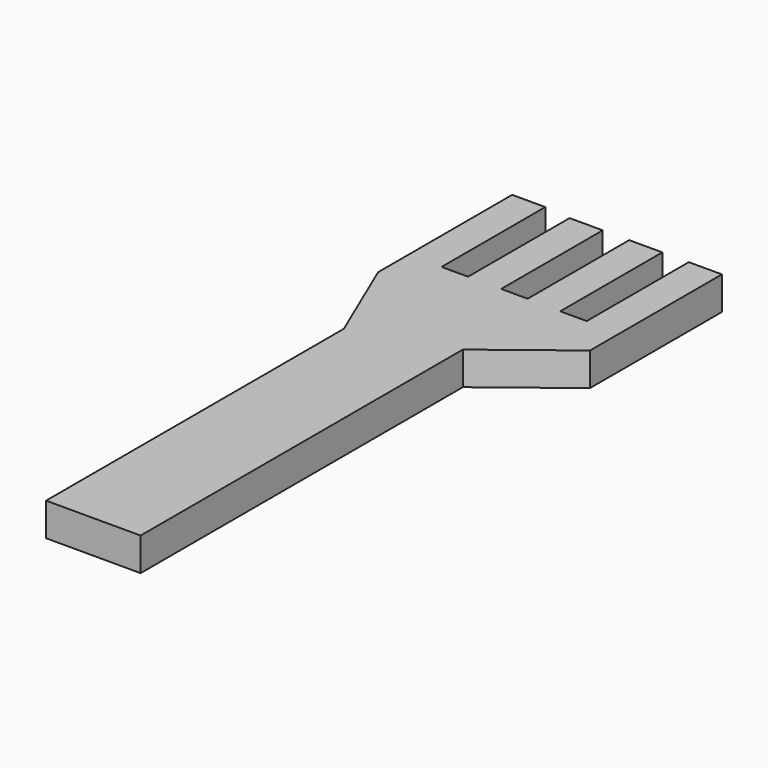
from build123d import *

# Parameters (mm, degrees)
F1_DEPTH = 6.35


with BuildPart() as f1:
    # F0 (on Top) → F1 (new body)
    with BuildSketch(Plane.XY):
        Polygon((-3.97574, 28.643733), (-3.97574, -42.725251), (14.148261, -42.725251), (14.148261, 34.510851), (29.21, 46.174749), (29.21, 77.791074), (22.86, 77.791074), (22.86, 53.314248), (17.78, 53.314248), (17.78, 77.791074), (11.43, 77.791074), (11.43, 53.450988), (6.35, 53.450988), (6.35, 77.791074), (0, 77.791074), (0, 53.450988), (-5.08, 53.450988), (-5.08, 78.309131), (-11.43, 78.309131), (-11.43, 46.174749), align=None)
    extrude(amount=F1_DEPTH)


solid = f1.part
